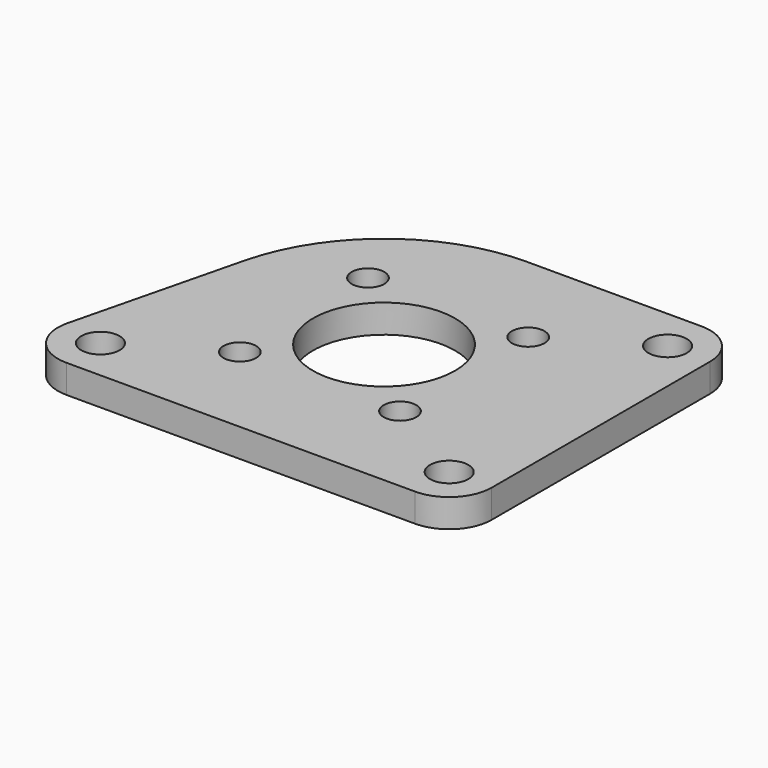
from build123d import *

# Parameters (mm, degrees)
F0_R     = 2.15265
F0_R_2   = 1.8288
F0_R_3   = 7.9629
F1_DEPTH = 3.175


with BuildPart() as f1:
    # F0 (on Top) → F1 (new body)
    with BuildSketch(Plane.XY):
        with BuildLine():
            Line((19.551401, 20.066), (0, 20.066))
            ThreePointArc((0, 20.066), (-12.368046, 15.801133), (-19.478634, 4.819457))
            Line((-19.478634, 4.819457), (-24.174495, -14.159641))
            ThreePointArc((-24.174495, -14.159641), (-23.30167, -18.238954), (-19.551401, -20.066))
            Line((-19.551401, -20.066), (19.551401, -20.066))
            ThreePointArc((19.551401, -20.066), (22.918998, -18.671096), (24.313901, -15.3035))
            Line((24.313901, -15.3035), (24.313901, 15.3035))
            ThreePointArc((24.313901, 15.3035), (22.918998, 18.671096), (19.551401, 20.066))
        make_face()
        with Locations((-19.551401, -15.3035)):
            Circle(F0_R, mode=Mode.SUBTRACT)
        with Locations((-8.980256, -8.980256)):
            Circle(F0_R_2, mode=Mode.SUBTRACT)
        with Locations((19.551401, -15.3035)):
            Circle(F0_R, mode=Mode.SUBTRACT)
        with Locations((8.980256, -8.980256)):
            Circle(F0_R_2, mode=Mode.SUBTRACT)
        with Locations((-8.980256, 8.980256)):
            Circle(F0_R_2, mode=Mode.SUBTRACT)
        Circle(F0_R_3, mode=Mode.SUBTRACT)
        with Locations((8.980256, 8.980256)):
            Circle(F0_R_2, mode=Mode.SUBTRACT)
        with Locations((19.551401, 15.3035)):
            Circle(F0_R, mode=Mode.SUBTRACT)
    extrude(amount=F1_DEPTH)


solid = f1.part
